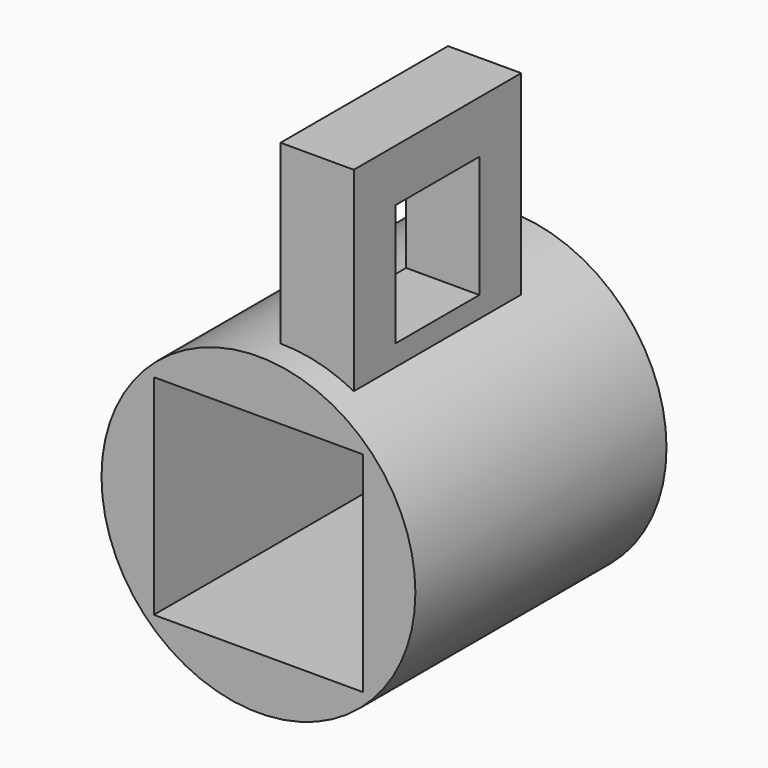
from build123d import *

# Parameters (mm, degrees)
F0_R     = 15
F1_DEPTH = 30
F2_W     = 20
F2_H     = 20
F3_DEPTH = 25
F4_W     = 20
F4_H     = 20
F5_DEPTH = 7
F6_W     = 10
F6_H     = 11.633402
F7_DEPTH = 20


with BuildPart() as f1:
    # F0 (on Front) → F1 (new body)
    with BuildSketch(Plane.XZ):
        Circle(F0_R)
    extrude(amount=F1_DEPTH)

    # F2 (on face) → F3 (cut)
    with BuildSketch(Plane.XZ.offset(30)):
        Rectangle(F2_W, F2_H)
    extrude(amount=-F3_DEPTH, mode=Mode.SUBTRACT)

    # F4 (on Right) → F5 (join)
    with BuildSketch(Plane.YZ):
        with Locations((-17.3568, 21.899901)):
            Rectangle(F4_W, F4_H)
    extrude(amount=F5_DEPTH)

    # F6 (on face) → F7 (cut)
    with BuildSketch(Plane.YZ.offset(7)):
        with Locations((-17.3568, 21.0832)):
            Rectangle(F6_W, F6_H)
    extrude(amount=-F7_DEPTH, mode=Mode.SUBTRACT)


solid = f1.part
